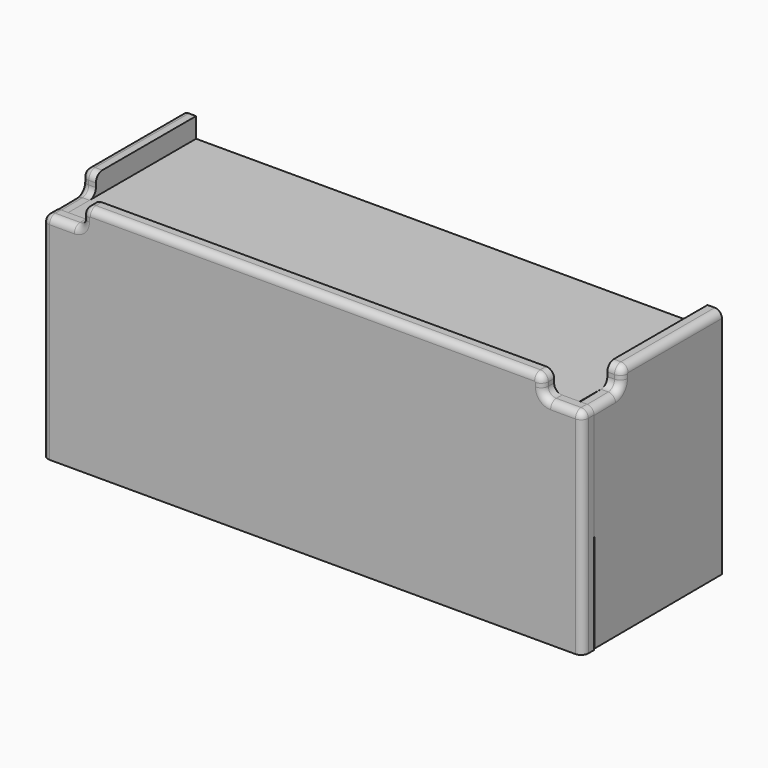
from build123d import *

# Parameters (mm, degrees)
F1_DEPTH = 18
F3_DEPTH = 18
F6_DEPTH = 18
F8_R     = 10
F8_2_R   = 10
F9_R     = 9
F9_2_R   = 9


with BuildPart() as f1:
    # F0 (on Top) → F1 (new body)
    with BuildSketch(Plane.XY):
        Polygon((-320, 0), (0, 0), (320, 0), (320, 200), (0, 200), (-320, 200), align=None)
    extrude(amount=-F1_DEPTH)


with BuildPart() as f3:
    # F2 (on Front) → F3 (new body)
    with BuildSketch(Plane.XZ):
        Polygon((288, 25), (0, 25), (-288, 25), (-288, 0), (-338, 0), (-338, -268), (0, -268), (338, -268), (338, 0), (288, 0), align=None)
    extrude(amount=F3_DEPTH)

    # F8#2
    f8_2_edges = [f3.edges().sort_by_distance(p)[0] for p in [
        (288, -9, 0),
        (-288, -9, 25),
        (-288, -9, 0),
        (288, -9, 25),
    ]]
    fillet(f8_2_edges, radius=F8_2_R)

    # F9#2
    f9_2_edges = [f3.edges().sort_by_distance(p)[0] for p in [
        (338, -9, 0),
        (0, -18, 25),
        (338, -18, -134),
        (-338, -18, -134),
        (-338, -9, 0),
    ]]
    fillet(f9_2_edges, radius=F9_2_R)


with BuildPart() as f6:
    # F5 (on face) → F6 (new body)
    with BuildSketch(Plane(origin=(320, 0, 0), x_dir=(0, -1, 0), z_dir=(-1, 0, 0))):
        Polygon((-43.30568, 0), (-43.30568, 25), (-200, 25), (-200, -265.823858), (-0.818532, -266.66075), (0.299544, -0.557066), align=None)
    extrude(amount=-F6_DEPTH)

    # F8
    f8_edges = [f6.edges().sort_by_distance(p)[0] for p in [
        (329, 43.30568, 0),
        (329, 43.30568, 25),
    ]]
    fillet(f8_edges, radius=F8_R)

    # F9
    f9_edges = [f6.edges().sort_by_distance(p)[0] for p in [
        (338, 126.65284, 25),
    ]]
    fillet(f9_edges, radius=F9_R)


with BuildPart() as f7_1:
    # F7: instance of F6
    add(f6.part.mirror(Plane.YZ))


solid = Compound([f1.part, f3.part, f6.part, f7_1.part])
